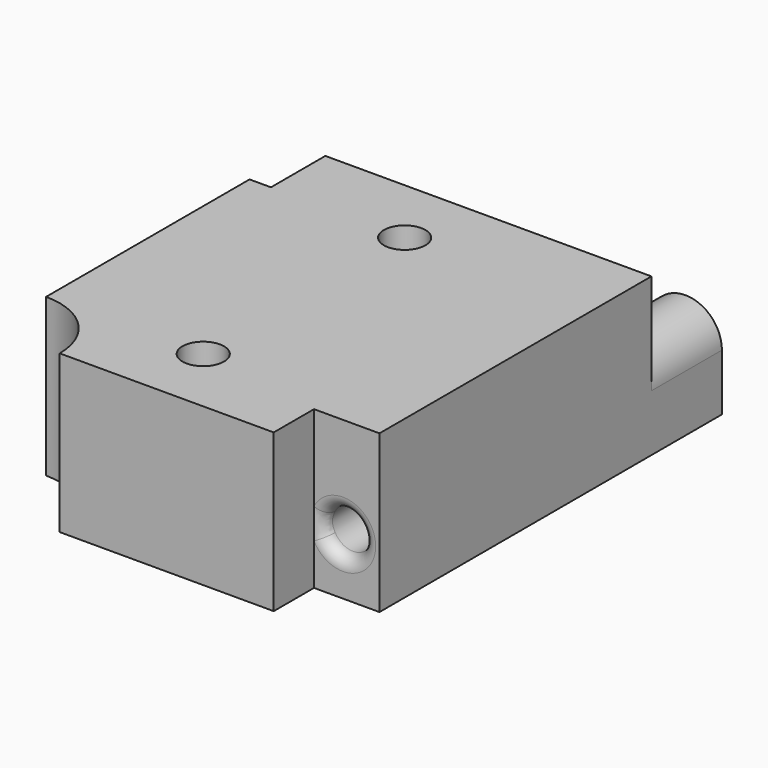
from build123d import *

# Parameters (mm, degrees)
SKETCH002_R     = 1.65
PAD002_DEPTH    = 12.5
SKETCH003_R     = 1.75
PAD003_DEPTH    = 7
SKETCH004_W     = 10.021474
SKETCH004_H     = 5.992485
POCKET_DEPTH    = 10
SKETCH005_R     = 1.6
POCKET001_DEPTH = 30
FILLET001_R     = 1


with BuildPart() as part:
    # Sketch002 → Pad002 (new body)
    with BuildSketch(Plane.XY):
        with BuildLine():
            Line((5.4, 0), (22.4, 0))
            Line((22.4, 0), (22.4, 4))
            Line((22.4, 4), (27.6, 4))
            Line((27.6, 4), (27.6, 31))
            Line((27.6, 31), (1.7, 31))
            Line((1.7, 25.6), (1.7, 31))
            Line((0, 25.6), (1.7, 25.6))
            Line((0, 25.6), (0, 5.4))
            ThreePointArc((5.4, 0), (3.818377, 3.818377), (0, 5.4))
        make_face()
        with Locations((12.4, 25.5)):
            Circle(SKETCH002_R, mode=Mode.SUBTRACT)
        with Locations((12.4, 5.5)):
            Circle(SKETCH002_R, mode=Mode.SUBTRACT)
    extrude(amount=PAD002_DEPTH)

    # Sketch003 (on Face5 of Pad002) → Pad003 (join)
    with BuildSketch(Plane(origin=(0, 31, 0), x_dir=(-1, 0, 0), z_dir=(0, 1, 0))):
        with BuildLine():
            Line((-27.6, 0), (-21.8, 0))
            Line((-21.8, 0), (-21.8, 4.5))
            ThreePointArc((-21.8, 4.5), (-24.7, 7.4), (-27.6, 4.5))
            Line((-27.6, 4.5), (-27.6, 0))
        make_face()
        with Locations((-24.7, 4.5)):
            Circle(SKETCH003_R, mode=Mode.SUBTRACT)
    extrude(amount=PAD003_DEPTH)

    # Sketch004 (on Face6 of Pad003) → Pocket (cut)
    with BuildSketch(Plane(origin=(0, 0, 0), x_dir=(0, -1, 0), z_dir=(-1, 0, 0))):
        with Locations((-15.491406, 3.567648)):
            Rectangle(SKETCH004_W, SKETCH004_H)
    extrude(amount=-POCKET_DEPTH, mode=Mode.SUBTRACT)

    # Sketch005 (on Face7 of Pocket) → Pocket001 (cut)
    with BuildSketch(Plane.XZ.offset(-4)):
        with Locations((24.7, 4.5)):
            Circle(SKETCH005_R)
    extrude(amount=-POCKET001_DEPTH, mode=Mode.SUBTRACT)

    # Fillet001
    fillet001_edges = [part.edges().sort_by_distance(p)[0] for p in [
        (23.1, 4, 4.5),
    ]]
    fillet(fillet001_edges, radius=FILLET001_R)


with BuildPart() as part_1:
    # Body001 placement: moved
    add(part.part.moved(Location((20.4, 0, 4))))


solid = part_1.part
